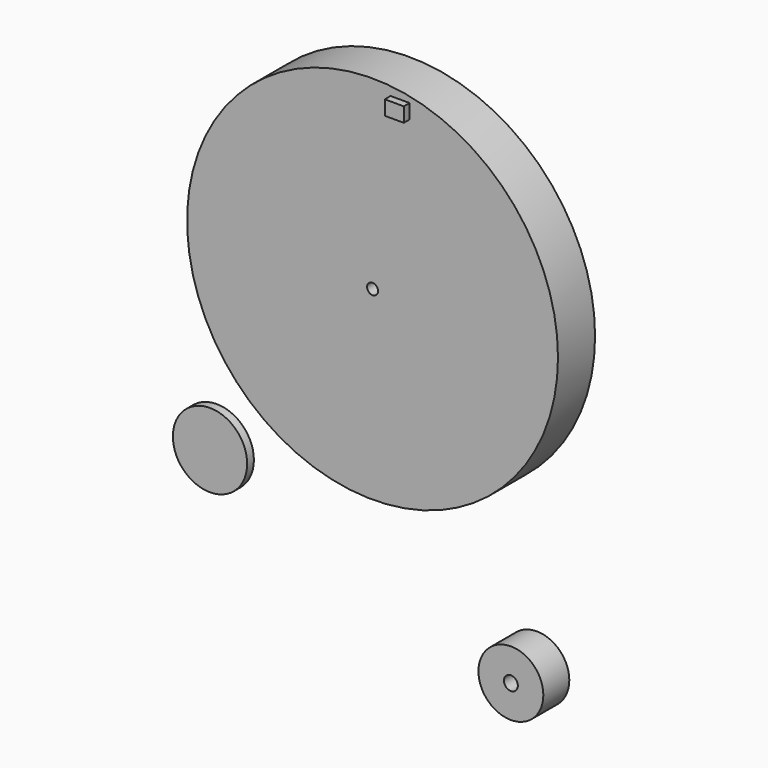
from build123d import *

# Parameters (mm, degrees)
F0_R     = 50.8
F0_R_2   = 1.5
F0_W     = 5.215391
F0_H     = 3.977142
F1_DEPTH = 12.7
F2_DEPTH = 14.67246
F0_R_3   = 10.17734
F3_DEPTH = 2.30627
F0_R_4   = 8.89
F0_R_5   = 1.905
F4_DEPTH = 8.89


with BuildPart() as f1:
    # F0 (on Front) → F1 (new body)
    with BuildSketch(Plane.XZ):
        with Locations((5.091641, 35.220779)):
            Circle(F0_R)
        with Locations((5.091641, 35.220779)):
            Circle(F0_R_2, mode=Mode.SUBTRACT)
        with Locations((12.635866, 81.381563)):
            Rectangle(F0_W, F0_H, mode=Mode.SUBTRACT)
        with Locations((12.635866, 81.381563)):
            Rectangle(F0_W, F0_H)
    extrude(amount=F1_DEPTH)

    # F0 (on Front) → F2 (join)
    with BuildSketch(Plane.XZ):
        with Locations((12.635866, 81.381563)):
            Rectangle(F0_W, F0_H)
    extrude(amount=F2_DEPTH)


with BuildPart() as f3:
    # F0 (on Front) → F3 (new body)
    with BuildSketch(Plane.XZ):
        with Locations((-47.750473, -25.048126)):
            Circle(F0_R_3)
    extrude(amount=F3_DEPTH)


with BuildPart() as f4:
    # F0 (on Front) → F4 (new body)
    with BuildSketch(Plane.XZ):
        with Locations((39.939184, -50.055023)):
            Circle(F0_R_4)
        with Locations((39.939184, -50.055023)):
            Circle(F0_R_5, mode=Mode.SUBTRACT)
    extrude(amount=F4_DEPTH)


solid = Compound([f1.part, f3.part, f4.part])
